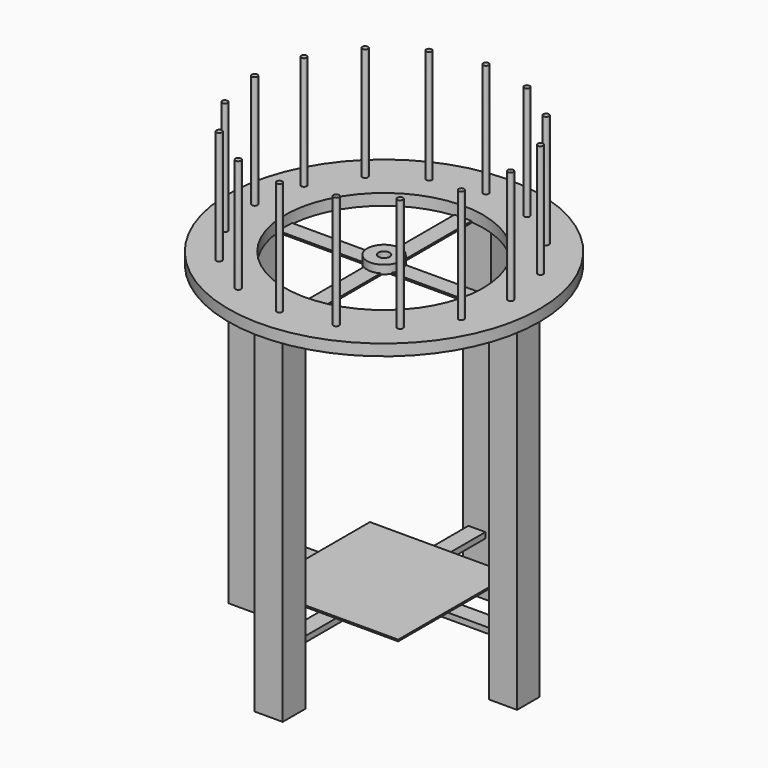
from build123d import *

# Parameters (mm, degrees)
F0_R       = 5
F0_R_2     = 275
F0_R_3     = 175
F1_DEPTH   = 20
F2_DEPTH   = 220
F3_W       = 50
F3_H       = 50
F4_DEPTH   = 600
F5_W       = 30
F5_H       = 10
F6_DEPTH   = 220
F7_W       = 30
F7_H       = 10
F8_DEPTH   = 220
F9_W       = 250
F9_H       = 2.8
F10_DEPTH  = 125
F11_W      = 440
F11_H      = 3
F12_DEPTH  = 15
F13_W      = 440
F13_H      = 3
F14_DEPTH  = 15
F15_R      = 30
F15_R_2    = 10
F16_DEPTH  = 15
F16_FACE_R = 10
F17_DEPTH  = 125


with BuildPart() as f1:
    # F0 (on Top) → F1 (new body)
    with BuildSketch(Plane.XY):
        with Locations((85.055368, -211.896841)):
            Circle(F0_R)
        with Locations((-1.848817, -228.815405)):
            Circle(F0_R)
        with Locations((-88.612269, -211.189329)):
            Circle(F0_R)
        with Locations((-162.026039, -161.702022)):
            Circle(F0_R)
        with Locations((-210.913547, -87.887479)):
            Circle(F0_R)
        with Locations((-227.832111, -0.983294)):
            Circle(F0_R)
        with Locations((-210.206035, 85.780158)):
            Circle(F0_R)
        with Locations((-160.718728, 159.193928)):
            Circle(F0_R)
        with Locations((-86.904185, 208.081435)):
            Circle(F0_R)
        with Locations((0, 225)):
            Circle(F0_R)
        with Locations((86.763452, 207.373924)):
            Circle(F0_R)
        with Locations((160.177222, 157.886617)):
            Circle(F0_R)
        with Locations((209.06473, 84.072074)):
            Circle(F0_R)
        with Locations((225.983294, -2.832111)):
            Circle(F0_R)
        with Locations((208.357218, -89.595563)):
            Circle(F0_R)
        with Locations((158.869911, -163.009334)):
            Circle(F0_R)
        Circle(F0_R_2)
        with Locations((-162.026039, -161.702022)):
            Circle(F0_R, mode=Mode.SUBTRACT)
        with Locations((-88.612269, -211.189329)):
            Circle(F0_R, mode=Mode.SUBTRACT)
        with Locations((-1.848817, -228.815405)):
            Circle(F0_R, mode=Mode.SUBTRACT)
        with Locations((-210.913547, -87.887479)):
            Circle(F0_R, mode=Mode.SUBTRACT)
        with Locations((-227.832111, -0.983294)):
            Circle(F0_R, mode=Mode.SUBTRACT)
        with Locations((85.055368, -211.896841)):
            Circle(F0_R, mode=Mode.SUBTRACT)
        with Locations((158.869911, -163.009334)):
            Circle(F0_R, mode=Mode.SUBTRACT)
        with Locations((208.357218, -89.595563)):
            Circle(F0_R, mode=Mode.SUBTRACT)
        with Locations((225.983294, -2.832111)):
            Circle(F0_R, mode=Mode.SUBTRACT)
        with Locations((-210.206035, 85.780158)):
            Circle(F0_R, mode=Mode.SUBTRACT)
        with Locations((-160.718728, 159.193928)):
            Circle(F0_R, mode=Mode.SUBTRACT)
        with Locations((-86.904185, 208.081435)):
            Circle(F0_R, mode=Mode.SUBTRACT)
        Circle(F0_R_3, mode=Mode.SUBTRACT)
        with Locations((209.06473, 84.072074)):
            Circle(F0_R, mode=Mode.SUBTRACT)
        with Locations((0, 225)):
            Circle(F0_R, mode=Mode.SUBTRACT)
        with Locations((86.763452, 207.373924)):
            Circle(F0_R, mode=Mode.SUBTRACT)
        with Locations((160.177222, 157.886617)):
            Circle(F0_R, mode=Mode.SUBTRACT)
    extrude(amount=F1_DEPTH)

    # F0 (on Top) → F2 (join)
    with BuildSketch(Plane.XY):
        with Locations((-160.718728, 159.193928)):
            Circle(F0_R)
        with Locations((-210.206035, 85.780158)):
            Circle(F0_R)
        with Locations((-86.904185, 208.081435)):
            Circle(F0_R)
        with Locations((0, 225)):
            Circle(F0_R)
        with Locations((86.763452, 207.373924)):
            Circle(F0_R)
        with Locations((160.177222, 157.886617)):
            Circle(F0_R)
        with Locations((209.06473, 84.072074)):
            Circle(F0_R)
        with Locations((225.983294, -2.832111)):
            Circle(F0_R)
        with Locations((208.357218, -89.595563)):
            Circle(F0_R)
        with Locations((158.869911, -163.009334)):
            Circle(F0_R)
        with Locations((85.055368, -211.896841)):
            Circle(F0_R)
        with Locations((-88.612269, -211.189329)):
            Circle(F0_R)
        with Locations((-1.848817, -228.815405)):
            Circle(F0_R)
        with Locations((-162.026039, -161.702022)):
            Circle(F0_R)
        with Locations((-210.913547, -87.887479)):
            Circle(F0_R)
        with Locations((-227.832111, -0.983294)):
            Circle(F0_R)
    extrude(amount=F2_DEPTH)

    # F3 (on Top) → F4 (join)
    with BuildSketch(Plane.XY):
        with Locations((0, -230.131581)):
            Rectangle(F3_W, F3_H)
        with Locations((230.131581, 0)):
            Rectangle(F3_W, F3_H)
        with Locations((0, 230.131581)):
            Rectangle(F3_W, F3_H)
        with Locations((-230.131581, 0)):
            Rectangle(F3_W, F3_H)
    extrude(amount=-F4_DEPTH)

    # F5 (on Right) → F6 (join, symmetric)
    with BuildSketch(Plane.YZ):
        with Locations((0, -500.068092)):
            Rectangle(F5_W, F5_H)
    extrude(amount=F6_DEPTH, both=True)

    # F7 (on Front) → F8 (join, symmetric)
    with BuildSketch(Plane.XZ):
        with Locations((0, -500.003541)):
            Rectangle(F7_W, F7_H)
    extrude(amount=F8_DEPTH, both=True)

    # F11 (on Front) → F12 (join, symmetric)
    with BuildSketch(Plane.XZ):
        Rectangle(F11_W, F11_H)
    extrude(amount=F12_DEPTH, both=True)

    # F13 (on Right) → F14 (join, symmetric)
    with BuildSketch(Plane.YZ):
        Rectangle(F13_W, F13_H)
    extrude(amount=F14_DEPTH, both=True)

    # F15 (on Top) → F16 (join)
    with BuildSketch(Plane.XY):
        Circle(F15_R)
        Circle(F15_R_2, mode=Mode.SUBTRACT)
    extrude(amount=F16_DEPTH)

    # F16_face (on face) → F17 (cut, symmetric)
    with BuildSketch(Plane.XY.offset(1.5)):
        Circle(F16_FACE_R)
    extrude(amount=F17_DEPTH, both=True, mode=Mode.SUBTRACT)


with BuildPart() as f10:
    # F9 (on Front) → F10 (new body, symmetric)
    with BuildSketch(Plane.XZ):
        with Locations((0, -493.73531)):
            Rectangle(F9_W, F9_H)
    extrude(amount=F10_DEPTH, both=True)


solid = Compound([f1.part, f10.part])
